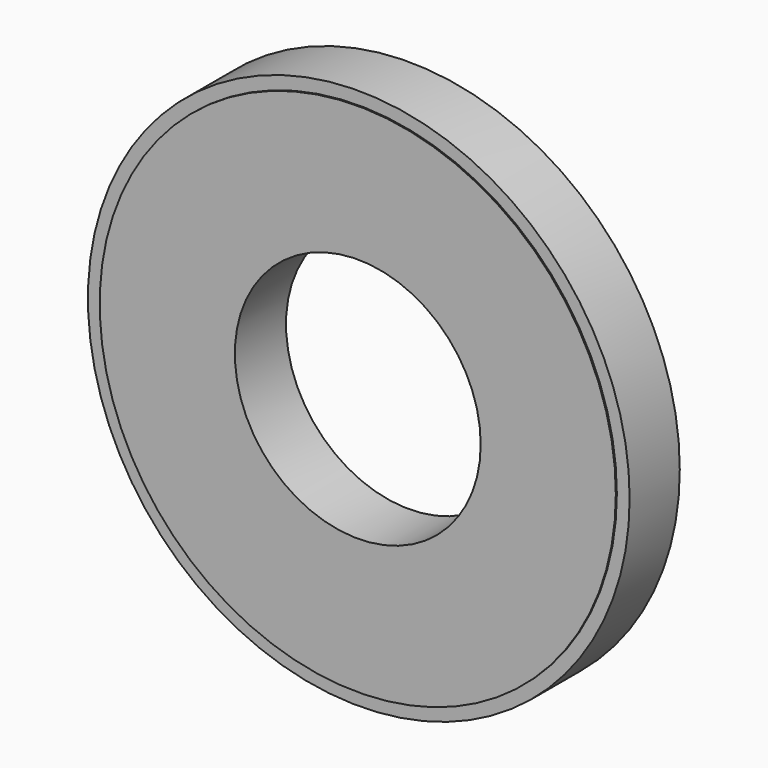
from build123d import *

# Parameters (mm, degrees)
F0_R          = 40.35
F0_R_2        = 19.220419
F1_DEPTH      = 5
F0_R_3        = 42.35
F2_DEPTH      = 4.8
F2_DEPTH_BACK = 5


with BuildPart() as f1:
    # F0 (on Front) → F1 (new body, symmetric)
    with BuildSketch(Plane.XZ):
        Circle(F0_R)
        Circle(F0_R_2, mode=Mode.SUBTRACT)
    extrude(amount=F1_DEPTH, both=True)

    # F0 (on Front) → F2 (join, two sides)
    with BuildSketch(Plane.XZ) as f2_sk:
        Circle(F0_R_3)
        Circle(F0_R, mode=Mode.SUBTRACT)
    extrude(amount=F2_DEPTH)
    extrude(f2_sk.sketch, amount=-F2_DEPTH_BACK)


solid = f1.part
